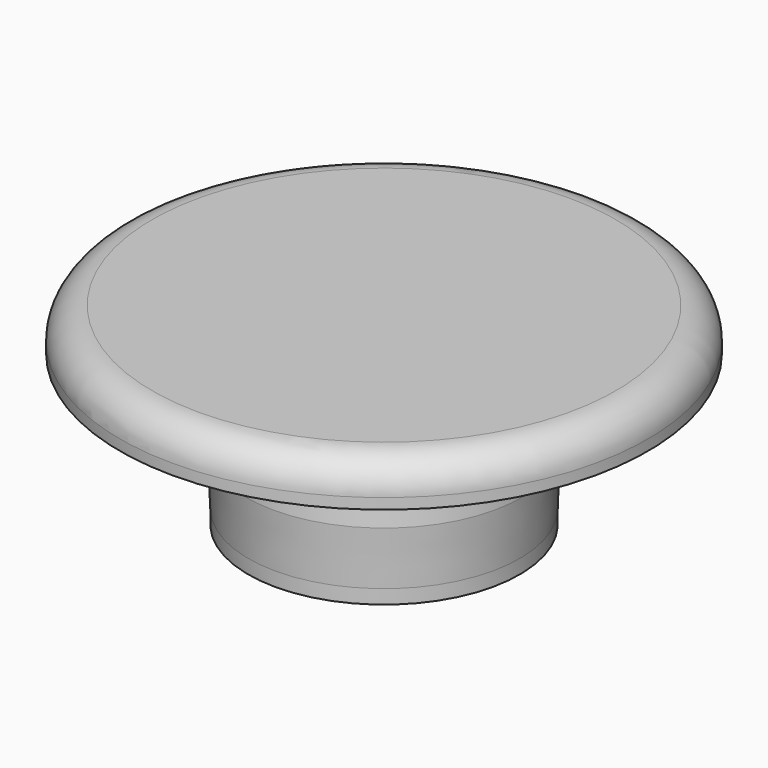
from build123d import *


with BuildPart() as f1:
    # F0 (on Right) → F1 (revolve)
    with BuildSketch(Plane.YZ):
        with BuildLine():
            Line((-6.35, -10.473485), (-5.488451, -10.473485))
            Line((-5.488451, -10.473485), (-5.488451, -3.844697))
            Line((-5.488451, -3.844697), (0, -3.844697))
            Line((0, -3.844697), (0, -1.438863))
            Line((0, -1.438863), (-10.85, -1.438863))
            ThreePointArc((-10.85, -1.438863), (-11.91066, -1.878203), (-12.35, -2.938863))
            Line((-12.35, -2.938863), (-12.35, -3.438863))
            Line((-12.35, -3.438863), (-6.35, -3.438863))
            Line((-6.35, -3.438863), (-6.35, -6.318287))
            Line((-6.35, -6.318287), (-6.35, -9.81605))
            Line((-6.35, -9.81605), (-6.35, -10.473485))
        make_face()
        Polygon((-6.45, -7.265888), (-6.35, -9.81605), (-6.35, -6.318287), align=None)
    revolve(axis=Axis((0, 0, 16.107956), (0, 0, 1)))


solid = f1.part
